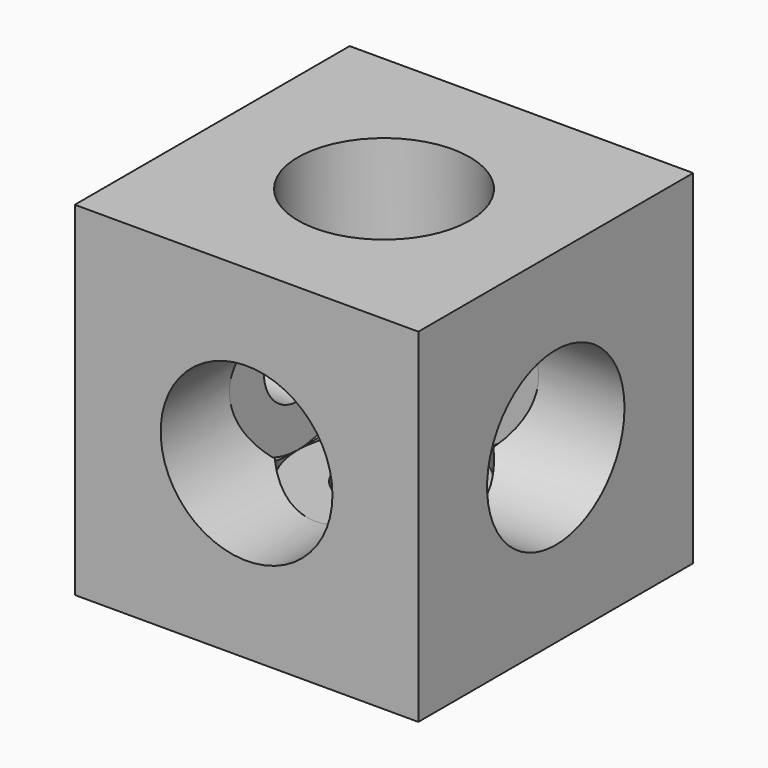
from build123d import *

# Parameters (mm, degrees)
F0_W                 = 20
F0_H                 = 20
F1_DEPTH             = 20
F5_D                 = 5
F5_CBORE_D           = 10
F5_CBORE_DEPTH       = 15
F5_ON_F3_D           = 5
F5_ON_F3_CBORE_D     = 10
F5_ON_F3_CBORE_DEPTH = 15
F5_ON_F4_D           = 5
F5_ON_F4_CBORE_D     = 10
F5_ON_F4_CBORE_DEPTH = 15


with BuildPart() as f1:
    # F0 (on Top) → F1 (new body)
    with BuildSketch(Plane.XY):
        Rectangle(F0_W, F0_H)
    extrude(amount=F1_DEPTH)

    # F5 (through all)
    with Locations(Plane.XZ.offset(10)):
        with Locations((0, 10)):
            CounterBoreHole(F5_D / 2, F5_CBORE_D / 2, F5_CBORE_DEPTH)

    # F5 on F3 (through all)
    with Locations(Plane.YZ.offset(10)):
        with Locations((0, 10)):
            CounterBoreHole(F5_ON_F3_D / 2, F5_ON_F3_CBORE_D / 2, F5_ON_F3_CBORE_DEPTH)

    # F5 on F4 (through all)
    with Locations(Plane.XY.offset(20)):
        with Locations((0, 0)):
            CounterBoreHole(F5_ON_F4_D / 2, F5_ON_F4_CBORE_D / 2, F5_ON_F4_CBORE_DEPTH)


solid = f1.part
